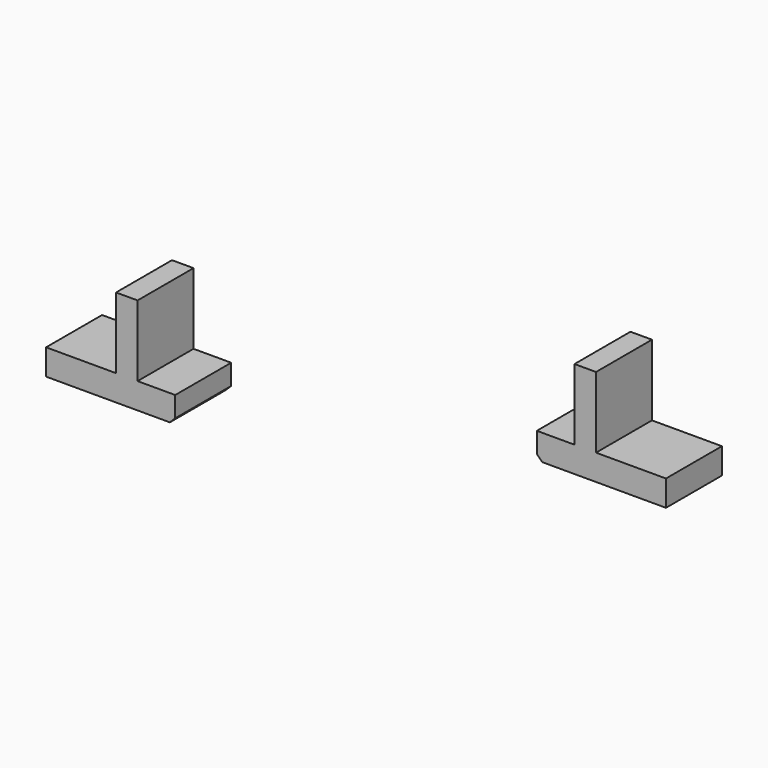
from build123d import *

# Parameters (mm, degrees)
BOX038_W                                         = 2
BOX038_H                                         = 6.5
BOX038_DEPTH                                     = 9
BOX037_W                                         = 2
BOX037_H                                         = 6.5
BOX037_DEPTH                                     = 9
BOX007_W                                         = 12
BOX007_H                                         = 6.5
BOX007_DEPTH                                     = 2.4
BOX034_W                                         = 12
BOX034_H                                         = 6.5
BOX034_DEPTH                                     = 2.4
CHAMFER005021077002006007019003032007004002_SIZE = 0.5


with BuildPart() as cube034:
    # Box038 → Box038 (new body)
    with BuildSketch(Plane(origin=(-17.5, -6.75, 4.5), x_dir=(1, 0, 0), z_dir=(0, 0, 1))):
        with Locations((1, 3.25)):
            Rectangle(BOX038_W, BOX038_H)
    extrude(amount=BOX038_DEPTH)


with BuildPart() as cube033:
    # Box037 → Box037 (new body)
    with BuildSketch(Plane(origin=(15.5, 5.25, 4.5), x_dir=(1, 0, 0), z_dir=(0, 0, 1))):
        with Locations((1, 3.25)):
            Rectangle(BOX037_W, BOX037_H)
    extrude(amount=BOX037_DEPTH)


with BuildPart() as cube007:
    # Box007 → Box007 (new body)
    with BuildSketch(Plane(origin=(12, 5.25, 4.5), x_dir=(1, 0, 0), z_dir=(0, 0, 1))):
        with Locations((6, 3.25)):
            Rectangle(BOX007_W, BOX007_H)
    extrude(amount=BOX007_DEPTH)


with BuildPart() as belt_cut:
    # Box034 → Box034 (new body)
    with BuildSketch(Plane(origin=(-24, -6.75, 4.5), x_dir=(1, 0, 0), z_dir=(0, 0, 1))):
        with Locations((6, 3.25)):
            Rectangle(BOX034_W, BOX034_H)
    extrude(amount=BOX034_DEPTH)

    # Fusion001007011026006: union Cube007
    add(cube007.part)

    # Chamfer005021077002006007019003032007004002
    chamfer005021077002006007019003032007004002_edges = [belt_cut.edges().sort_by_distance(p)[0] for p in [
        (-12, -3.5, 4.5),
        (12, 8.5, 4.5),
    ]]
    chamfer(chamfer005021077002006007019003032007004002_edges, length=CHAMFER005021077002006007019003032007004002_SIZE)

    # Fusion001007011026007: union Cube034, Cube033
    add(cube034.part)
    add(cube033.part)


solid = belt_cut.part
